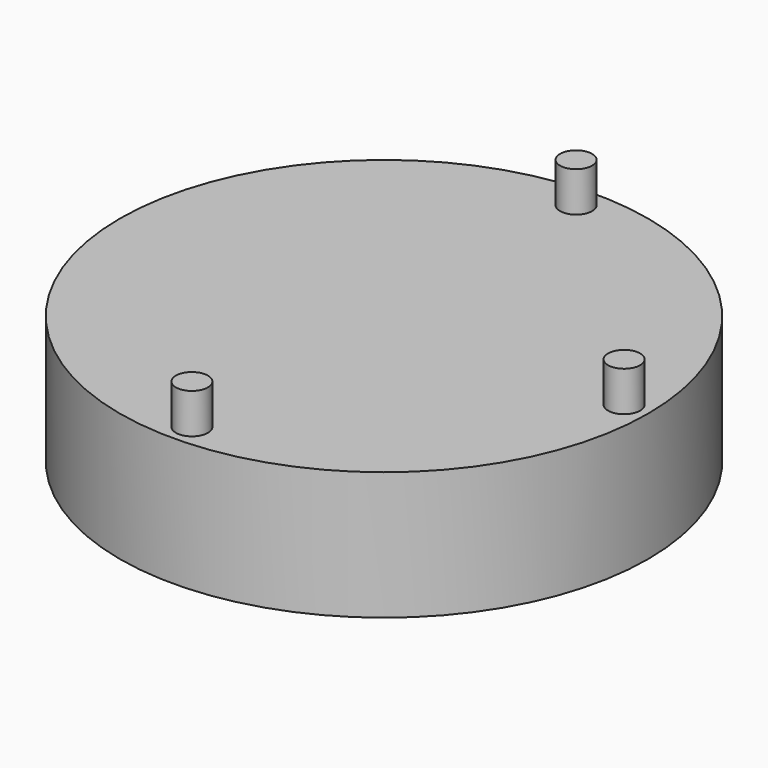
from build123d import *

# Parameters (mm, degrees)
F0_R     = 16.5
F1_DEPTH = 8
F2_R     = 1.1
F3_DEPTH = 2.5
F4_R     = 1
F5_DEPTH = 2.5


with BuildPart() as f1:
    # F0 (on Top) → F1 (new body)
    with BuildSketch(Plane.XY):
        Circle(F0_R)
    extrude(amount=F1_DEPTH)

    # F2 (on face) → F3 (cut)
    with BuildSketch(Plane(origin=(0, 0, 0), x_dir=(1, 0, 0), z_dir=(0, 0, -1))):
        with Locations((0, 15.1)):
            Circle(F2_R)
        with Locations((15, 0.1)):
            Circle(F2_R)
        with Locations((0, -14.9)):
            Circle(F2_R)
    extrude(amount=-F3_DEPTH, mode=Mode.SUBTRACT)

    # F4 (on face) → F5 (join)
    with BuildSketch(Plane.XY.offset(8)):
        with Locations((0, 15)):
            Circle(F4_R)
        with Locations((15, 0)):
            Circle(F4_R)
        with Locations((0, -15)):
            Circle(F4_R)
    extrude(amount=F5_DEPTH)


solid = f1.part
